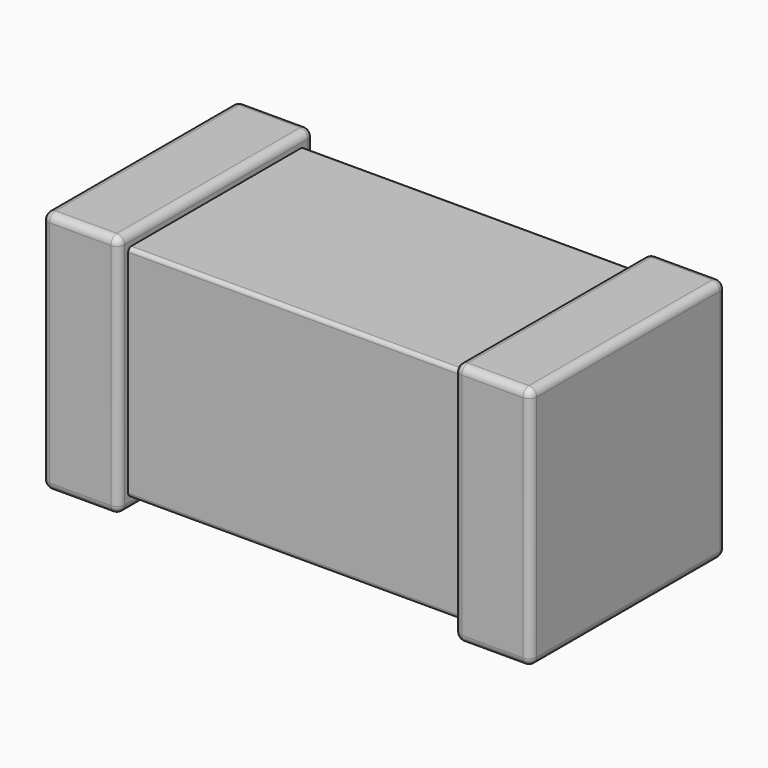
from build123d import *

# Parameters (mm, degrees)
SKETCH001_W  = 0.5
SKETCH001_H  = 1.6
PAD001_DEPTH = 0.8
FILLET_R     = 0.05
SKETCH002_W  = 0.5
SKETCH002_H  = 1.6
PAD002_DEPTH = 0.8
FILLET001_R  = 0.05
SKETCH_W     = 2.88
SKETCH_H     = 1.44
PAD_DEPTH    = 1.44
FILLET002_R  = 0.025


with BuildPart() as body001:
    # Sketch001 → Pad001 (new body, symmetric)
    with BuildSketch(Plane.XZ):
        with Locations((-1.35, 0.8)):
            Rectangle(SKETCH001_W, SKETCH001_H)
    extrude(amount=PAD001_DEPTH, both=True)

    # Fillet
    fillet_edges = [body001.edges().sort_by_distance(p)[0] for p in [
        (-1.6, 0, 1.6),
        (-1.6, 0.8, 0.8),
        (-1.35, 0.8, 1.6),
        (-1.1, 0.8, 0.8),
        (-1.35, 0.8, 0),
        (-1.1, 0, 0),
        (-1.6, 0, 0),
        (-1.6, -0.8, 0.8),
        (-1.35, -0.8, 0),
        (-1.1, -0.8, 0.8),
        (-1.35, -0.8, 1.6),
        (-1.1, 0, 1.6),
    ]]
    fillet(fillet_edges, radius=FILLET_R)


with BuildPart() as body002:
    # Sketch002 → Pad002 (new body, symmetric)
    with BuildSketch(Plane.XZ):
        with Locations((1.35, 0.8)):
            Rectangle(SKETCH002_W, SKETCH002_H)
    extrude(amount=PAD002_DEPTH, both=True)

    # Fillet001
    fillet001_edges = [body002.edges().sort_by_distance(p)[0] for p in [
        (1.6, 0, 0),
        (1.6, 0.8, 0.8),
        (1.6, -0.8, 0.8),
        (1.6, 0, 1.6),
        (1.35, -0.8, 1.6),
        (1.35, 0.8, 1.6),
        (1.1, 0, 1.6),
        (1.1, -0.8, 0.8),
        (1.35, -0.8, 0),
        (1.1, 0, 0),
        (1.1, 0.8, 0.8),
        (1.35, 0.8, 0),
    ]]
    fillet(fillet001_edges, radius=FILLET001_R)


with BuildPart() as fusion:
    # Sketch → Pad (new body)
    with BuildSketch(Plane.XY.offset(0.08)):
        Rectangle(SKETCH_W, SKETCH_H)
    extrude(amount=PAD_DEPTH)

    # Fillet002
    fillet002_edges = [fusion.edges().sort_by_distance(p)[0] for p in [
        (0, -0.72, 1.52),
        (0, 0.72, 1.52),
        (0, -0.72, 0.08),
        (0, 0.72, 0.08),
    ]]
    fillet(fillet002_edges, radius=FILLET002_R)

    # Fusion: union Body001, Body002
    add(body001.part)
    add(body002.part)


solid = fusion.part
